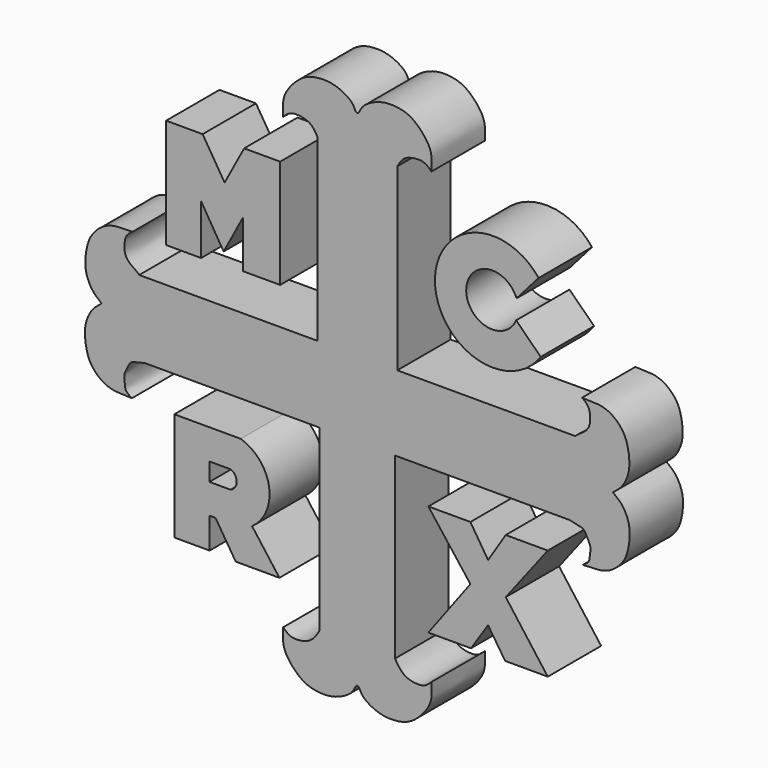
from build123d import *

# Parameters (mm, degrees)
F1_DEPTH = 12.7


with BuildPart() as f1:
    # F0 (on Front) → F1 (new body)
    with BuildSketch(Plane.XZ):
        with BuildLine():
            add(Edge.make_bspline(
                [(0, 47.9758307338), (0.3401024151, 48.0959750712), (0.5908872818, 48.8948944755), (1.44218376, 49.9876306749), (4.4001276789, 51.6259487784), (8.2552308539, 51.5648948682), (10.9805142821, 50.4049571137), (13.5788147215, 47.4974493331), (14.2450998496, 45.3407836728), (14.1595642706, 43.6447338682), (14.1165088862, 42.7896566689)],
                knots=[0, 0, 0, 0, 0.0801812271, 0.172057163, 0.3147621593, 0.4685447635, 0.6044907338, 0.7571112766, 0.8749503565, 1, 1, 1, 1], degree=3))
            add(Edge.make_bspline(
                [(0, 47.9758307338), (-0.3401024151, 48.0959750712), (-0.5908872818, 48.8948944755), (-1.44218376, 49.9876306749), (-4.4001276789, 51.6259487784), (-8.2552308539, 51.5648948682), (-10.9805142821, 50.4049571137), (-13.5788147215, 47.4974493331), (-14.2450998496, 45.3407836728), (-14.1595642706, 43.6447338682), (-14.1165088862, 42.7896566689)],
                knots=[0, 0, 0, 0, 0.0801812271, 0.172057163, 0.3147621593, 0.4685447635, 0.6044907338, 0.7571112766, 0.8749503565, 1, 1, 1, 1], degree=3))
            add(Edge.make_bspline(
                [(-14.1165088862, 42.7896566689), (-13.779611525, 43.1393699296), (-12.8848726229, 43.9590002877), (-11.22657774, 44.0831806062), (-8.7857116767, 43.59035932), (-7.9967096529, 42.2229408011), (-7.6087587513, 41.5481775999)],
                knots=[0, 0, 0, 0, 0.2268776036, 0.4564837499, 0.7297676246, 1, 1, 1, 1], degree=3))
            Line((-7.6087587513, 41.5481775999), (-7.6087587513, 7.3510748334))
            Line((-7.6087587513, 7.3510748334), (-41.5422581136, 7.3510748334))
            add(Edge.make_bspline(
                [(-41.5422581136, 7.3510748334), (-41.85871066, 7.7855279455), (-43.3326510803, 8.4773645882), (-44.3411915552, 9.9886784509), (-44.3468502966, 11.5297361742), (-44.26490888, 13.3210495114), (-42.7831672132, 14.1966249794)],
                knots=[0, 0, 0, 0, 0.2511238804, 0.4812791978, 0.6893650186, 1, 1, 1, 1], degree=3))
            add(Edge.make_bspline(
                [(-42.7831672132, 14.1966249794), (-44.8378655371, 14.151957489), (-45.953565777, 14.1851800521), (-48.5237910858, 13.4492529595), (-50.8237138562, 11.1351611219), (-51.4978303258, 8.8922821856), (-51.8451627528, 6.9745507828), (-51.8381564377, 4.3771847358), (-50.4632850026, 1.5954941268), (-49.4031041048, 0.8513253508), (-48.686676454, 0.2445175072)],
                knots=[0, 0, 0, 0, 0.1446545297, 0.2615101849, 0.4002938068, 0.5179689459, 0.6252866322, 0.7501602024, 0.8824081053, 1, 1, 1, 1], degree=3))
            add(Edge.make_bspline(
                [(-42.9489933071, -13.7765992949), (-45.0030176638, -13.707575176), (-46.1190333665, -13.7275680615), (-48.6803531502, -12.9612210191), (-50.9526792361, -10.6200247562), (-51.6001575586, -8.3693113672), (-51.9247296379, -6.4475968948), (-51.8869303731, -3.8504964566), (-50.4791768367, -1.0853013301), (-49.4102478504, -0.3537539798), (-48.686676454, 0.2445175072)],
                knots=[0, 0, 0, 0, 0.1446545297, 0.2615101849, 0.4002938068, 0.5179689459, 0.6252866322, 0.7501602024, 0.8824081053, 1, 1, 1, 1], degree=3))
            add(Edge.make_bspline(
                [(-42.3833914101, -7.5243525207), (-43.2329326868, -7.6376241632), (-43.68260861, -8.8625946484), (-44.5849794631, -10.2212402763), (-44.1445660433, -12.2195480003), (-44.2449684371, -12.9899177976), (-42.9489933071, -13.7765992949)],
                knots=[0, 0, 0, 0, 0.2528621237, 0.4858898495, 0.7263732951, 1, 1, 1, 1], degree=3))
            Line((-42.3833914101, -7.5243525207), (-40.4577702284, -7.0712645538))
            Line((-40.4577702284, -7.0712645538), (-7.2124442086, -7.0712645538))
            Line((-7.2124442086, -7.0712645538), (-7.1800267324, -41.1133728921))
            add(Edge.make_bspline(
                [(-14.1165088862, -42.7896566689), (-13.7907092981, -43.1278499866), (-12.8865917267, -43.9689797849), (-11.20181489, -44.0637767903), (-8.8025796941, -43.6526060389), (-7.6024890047, -41.8481617381), (-7.1800267324, -41.1133728921)],
                knots=[0, 0, 0, 0, 0.2194040035, 0.4414466684, 0.7057282689, 1, 1, 1, 1], degree=3))
            add(Edge.make_bspline(
                [(0, -47.9758307338), (-0.3401024151, -48.0959750712), (-0.5908872818, -48.8948944755), (-1.44218376, -49.9876306749), (-4.4001276789, -51.6259487784), (-8.2552308539, -51.5648948682), (-10.9805142821, -50.4049571137), (-13.5788147215, -47.4974493331), (-14.2450998496, -45.3407836728), (-14.1595642706, -43.6447338682), (-14.1165088862, -42.7896566689)],
                knots=[0, 0, 0, 0, 0.0801812271, 0.172057163, 0.3147621593, 0.4685447635, 0.6044907338, 0.7571112766, 0.8749503565, 1, 1, 1, 1], degree=3))
            add(Edge.make_bspline(
                [(0, -47.9758307338), (0.3401024151, -48.0959750712), (0.5908872818, -48.8948944755), (1.44218376, -49.9876306749), (4.4001276789, -51.6259487784), (8.2552308539, -51.5648948682), (10.9805142821, -50.4049571137), (13.5788147215, -47.4974493331), (14.2450998496, -45.3407836728), (14.1595642706, -43.6447338682), (14.1165088862, -42.7896566689)],
                knots=[0, 0, 0, 0, 0.0801812271, 0.172057163, 0.3147621593, 0.4685447635, 0.6044907338, 0.7571112766, 0.8749503565, 1, 1, 1, 1], degree=3))
            add(Edge.make_bspline(
                [(14.1165088862, -42.7896566689), (13.7907092981, -43.1278499866), (12.8865917267, -43.9689797849), (11.20181489, -44.0637767903), (8.8025796941, -43.6526060389), (7.6024890047, -41.8481617381), (7.1800267324, -41.1133728921)],
                knots=[0, 0, 0, 0, 0.2194040035, 0.4414466684, 0.7057282689, 1, 1, 1, 1], degree=3))
            Line((7.1800267324, -41.1133728921), (7.2124442086, -7.0712645538))
            Line((7.2124442086, -7.0712645538), (40.4577702284, -7.0712645538))
            Line((40.4577702284, -7.0712645538), (42.3833914101, -7.5243525207))
            add(Edge.make_bspline(
                [(42.3833914101, -7.5243525207), (43.2329326868, -7.6376241632), (43.68260861, -8.8625946484), (44.5849794631, -10.2212402763), (44.1445660433, -12.2195480003), (44.2449684371, -12.9899177976), (42.9489933071, -13.7765992949)],
                knots=[0, 0, 0, 0, 0.2528621237, 0.4858898495, 0.7263732951, 1, 1, 1, 1], degree=3))
            add(Edge.make_bspline(
                [(42.9489933071, -13.7765992949), (45.0030176638, -13.707575176), (46.1190333665, -13.7275680615), (48.6803531502, -12.9612210191), (50.9526792361, -10.6200247562), (51.6001575586, -8.3693113672), (51.9247296379, -6.4475968948), (51.8869303731, -3.8504964566), (50.4791768367, -1.0853013301), (49.4102478504, -0.3537539798), (48.686676454, 0.2445175072)],
                knots=[0, 0, 0, 0, 0.1446545297, 0.2615101849, 0.4002938068, 0.5179689459, 0.6252866322, 0.7501602024, 0.8824081053, 1, 1, 1, 1], degree=3))
            add(Edge.make_bspline(
                [(42.7831672132, 14.1966249794), (44.8378655371, 14.151957489), (45.953565777, 14.1851800521), (48.5237910858, 13.4492529595), (50.8237138562, 11.1351611219), (51.4978303258, 8.8922821856), (51.8451627528, 6.9745507828), (51.8381564377, 4.3771847358), (50.4632850026, 1.5954941268), (49.4031041048, 0.8513253508), (48.686676454, 0.2445175072)],
                knots=[0, 0, 0, 0, 0.1446545297, 0.2615101849, 0.4002938068, 0.5179689459, 0.6252866322, 0.7501602024, 0.8824081053, 1, 1, 1, 1], degree=3))
            add(Edge.make_bspline(
                [(41.5422581136, 7.3510748334), (41.85871066, 7.7855279455), (43.3326510803, 8.4773645882), (44.3411915552, 9.9886784509), (44.3468502966, 11.5297361742), (44.26490888, 13.3210495114), (42.7831672132, 14.1966249794)],
                knots=[0, 0, 0, 0, 0.2511238804, 0.4812791978, 0.6893650186, 1, 1, 1, 1], degree=3))
            Line((41.5422581136, 7.3510748334), (7.6087587513, 7.3510748334))
            Line((7.6087587513, 7.3510748334), (7.6087587513, 41.5481775999))
            add(Edge.make_bspline(
                [(14.1165088862, 42.7896566689), (13.779611525, 43.1393699296), (12.8848726229, 43.9590002877), (11.22657774, 44.0831806062), (8.7857116767, 43.59035932), (7.9967096529, 42.2229408011), (7.6087587513, 41.5481775999)],
                knots=[0, 0, 0, 0, 0.2268776036, 0.4564837499, 0.7297676246, 1, 1, 1, 1], degree=3))
        make_face()
    extrude(amount=F1_DEPTH)


with BuildPart() as f1b:
    # F0 (on Front) → F1, piece 2 (new body)
    with BuildSketch(Plane.XZ):
        Polygon((-36.4160165191, 34.8906926811), (-36.4160165191, 14.0309426934), (-29.7485142946, 14.0309426934), (-29.7485142946, 23.5559418797), (-25.4622641951, 16.5074430406), (-21.7475146055, 23.4606936574), (-21.7475146055, 14.411942102), (-14.6990148351, 14.411942102), (-14.6990148351, 35.0811928511), (-21.5570144355, 35.0811928511), (-25.2717640251, 28.1279440969), (-29.4627640396, 34.8906926811), align=None)
    extrude(amount=F1_DEPTH)


with BuildPart() as f1c:
    # F0 (on Front) → F1, piece 3 (new body)
    with BuildSketch(Plane.XZ):
        with BuildLine():
            ThreePointArc((30.2428174764, 23.0938643217), (20.7344560339, 25.1389158188), (30.3179193288, 26.796746999))
            Line((30.3179193288, 26.796746999), (34.5279201865, 31.5839760005))
            ThreePointArc((34.5279201865, 31.5839760005), (14.7885733906, 24.4264055918), (34.9283963442, 18.4883791953))
            Line((34.9283963442, 18.4883791953), (30.2428174764, 23.0938643217))
        make_face()
    extrude(amount=F1_DEPTH)


with BuildPart() as f1d:
    # F0 (on Front) → F1, piece 4 (new body)
    with BuildSketch(Plane.XZ):
        with BuildLine():
            Line((-34.8571650684, -13.8301076367), (-34.8571650684, -34.4947166741))
            Line((-34.8571650684, -34.4947166741), (-28.1291529536, -34.4947166741))
            Line((-28.1291529536, -34.4947166741), (-28.1291529536, -28.6477524787))
            Line((-28.1291529536, -28.6477524787), (-27.007818222, -28.6477524787))
            Line((-27.007818222, -28.6477524787), (-23.1632404029, -34.7350016236))
            Line((-23.1632404029, -34.7350016236), (-14.8333199322, -34.7350016236))
            Line((-14.8333199322, -34.7350016236), (-20.0395192951, -27.7667045593))
            ThreePointArc((-20.0395192951, -27.7667045593), (-16.8049195171, -20.128699291), (-22.2020950168, -13.8301076367))
            Line((-22.2020950168, -13.8301076367), (-34.8571650684, -13.8301076367))
        make_face()
        with BuildLine():
            ThreePointArc((-24.1236910224, -19.5620302111), (-22.9737007691, -21.2765298784), (-24.1236910224, -22.9910295457))
            Line((-24.1236910224, -22.9910295457), (-28.1718168408, -22.9910295457))
            Line((-28.1718168408, -22.9910295457), (-28.1718168408, -19.5620302111))
            Line((-28.1718168408, -19.5620302111), (-24.1236910224, -19.5620302111))
        make_face(mode=Mode.SUBTRACT)
    extrude(amount=F1_DEPTH)


with BuildPart() as f1e:
    # F0 (on Front) → F1, piece 5 (new body)
    with BuildSketch(Plane.XZ):
        Polygon((24.8982962221, -18.8329517841), (21.5342920274, -13.5466558859), (13.5247530416, -13.5466558859), (21.5342920274, -23.9590555429), (13.5247530416, -34.6934868201), (21.6406163191, -34.6934868201), (24.8982962221, -29.7497363654), (28.1559761251, -34.6934868201), (36.2718394026, -34.6934868201), (28.2623004168, -23.9590555429), (36.2718394026, -13.5466558859), (28.2623004168, -13.5466558859), align=None)
    extrude(amount=F1_DEPTH)


solid = Compound([f1.part, f1b.part, f1c.part, f1d.part, f1e.part])
